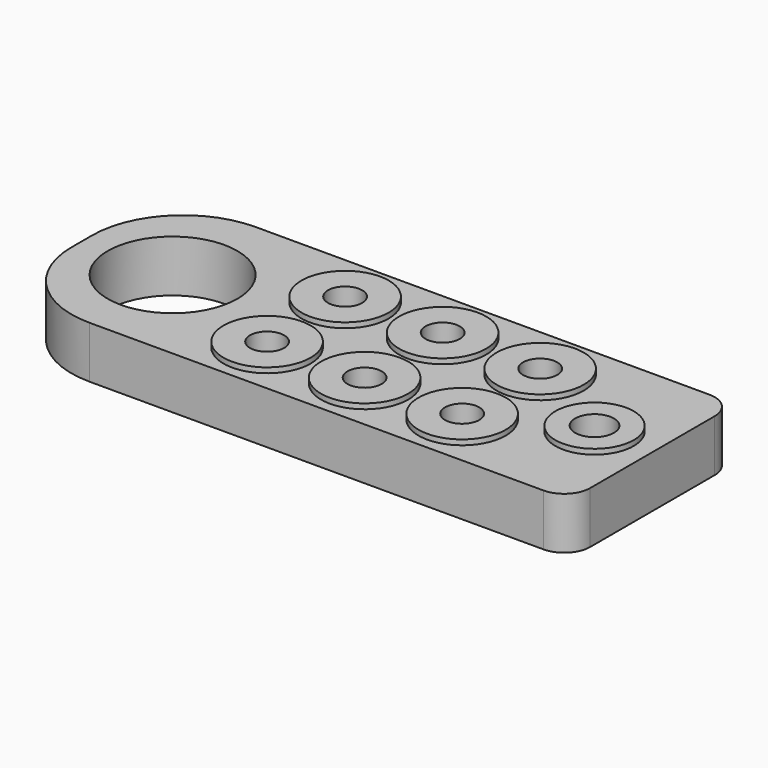
from build123d import *

# Parameters (mm, degrees)
F0_R     = 12.5
F1_DEPTH = 10
F2_R     = 8.4
F2_R_2   = 3.3
F2_R_3   = 7.55
F2_R_4   = 3.75
F3_DEPTH = 1
F4_DEPTH = 9


with BuildPart() as f1:
    # F0 (on Top) → F1 (new body)
    with BuildSketch(Plane.XY):
        with BuildLine():
            ThreePointArc((0, 17.5), (5.125631, 5.125631), (17.5, 0))
            Line((17.5, 0), (105, 0))
            ThreePointArc((105, 0), (108.535534, 1.464466), (110, 5))
            Line((110, 5), (110, 35))
            ThreePointArc((110, 35), (108.535534, 38.535534), (105, 40))
            Line((105, 40), (17.5, 40))
            ThreePointArc((17.5, 40), (5.125631, 34.874369), (0, 22.5))
            Line((0, 22.5), (0, 17.5))
        make_face()
        with Locations((17.5, 20)):
            Circle(F0_R, mode=Mode.SUBTRACT)
    extrude(amount=F1_DEPTH)

    # F2 (on face) → F3 (join)
    with BuildSketch(Plane.XY.offset(10)):
        with Locations((43.4, 29.2)):
            Circle(F2_R)
        with Locations((43.4, 29.2)):
            Circle(F2_R_2, mode=Mode.SUBTRACT)
        with Locations((62.2, 29.2)):
            Circle(F2_R)
        with Locations((62.2, 29.2)):
            Circle(F2_R_2, mode=Mode.SUBTRACT)
        with Locations((62.2, 10.4)):
            Circle(F2_R)
        with Locations((62.2, 10.4)):
            Circle(F2_R_2, mode=Mode.SUBTRACT)
        with Locations((43.4, 10.4)):
            Circle(F2_R)
        with Locations((43.4, 10.4)):
            Circle(F2_R_2, mode=Mode.SUBTRACT)
        with Locations((81, 10.4)):
            Circle(F2_R)
        with Locations((81, 10.4)):
            Circle(F2_R_2, mode=Mode.SUBTRACT)
        with Locations((81, 29.2)):
            Circle(F2_R)
        with Locations((81, 29.2)):
            Circle(F2_R_2, mode=Mode.SUBTRACT)
        with Locations((99, 19.8)):
            Circle(F2_R_3)
        with Locations((99, 19.8)):
            Circle(F2_R_4, mode=Mode.SUBTRACT)
    extrude(amount=F3_DEPTH)

    # F2 (on face) → F4 (cut)
    with BuildSketch(Plane.XY.offset(10)):
        with Locations((99, 19.8)):
            Circle(F2_R_4)
        with Locations((81, 29.2)):
            Circle(F2_R_2)
        with Locations((81, 10.4)):
            Circle(F2_R_2)
        with Locations((62.2, 10.4)):
            Circle(F2_R_2)
        with Locations((62.2, 29.2)):
            Circle(F2_R_2)
        with Locations((43.4, 29.2)):
            Circle(F2_R_2)
        with Locations((43.4, 10.4)):
            Circle(F2_R_2)
    extrude(amount=-F4_DEPTH, mode=Mode.SUBTRACT)


solid = f1.part
